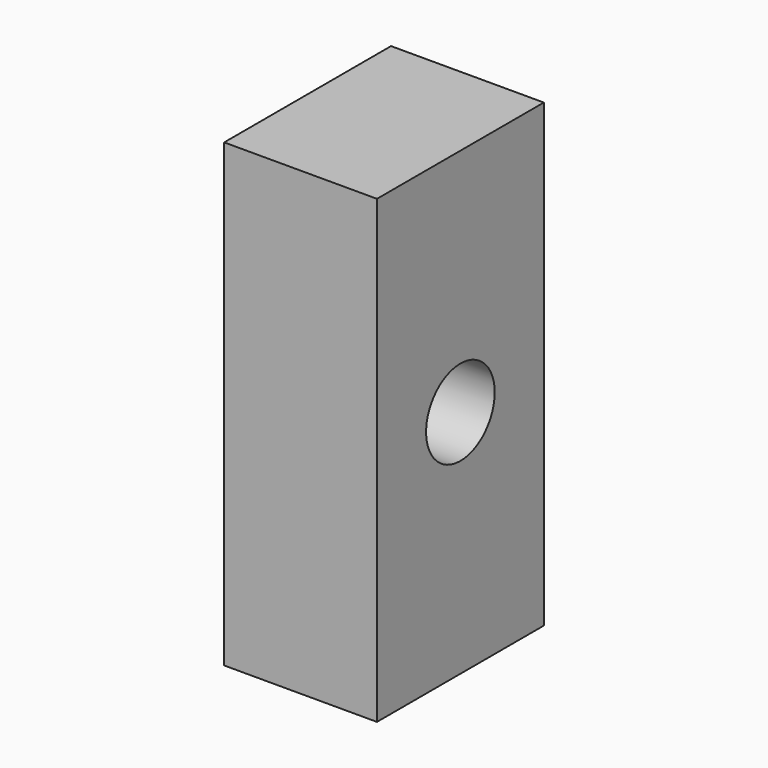
from build123d import *

# Parameters (mm, degrees)
F0_W     = 77.8
F0_H     = 171.8
F0_R     = 16
F1_DEPTH = 57


with BuildPart() as f1:
    # F0 (on Right) → F1 (new body)
    with BuildSketch(Plane.YZ):
        Rectangle(F0_W, F0_H)
        Circle(F0_R, mode=Mode.SUBTRACT)
    extrude(amount=F1_DEPTH)


solid = f1.part
